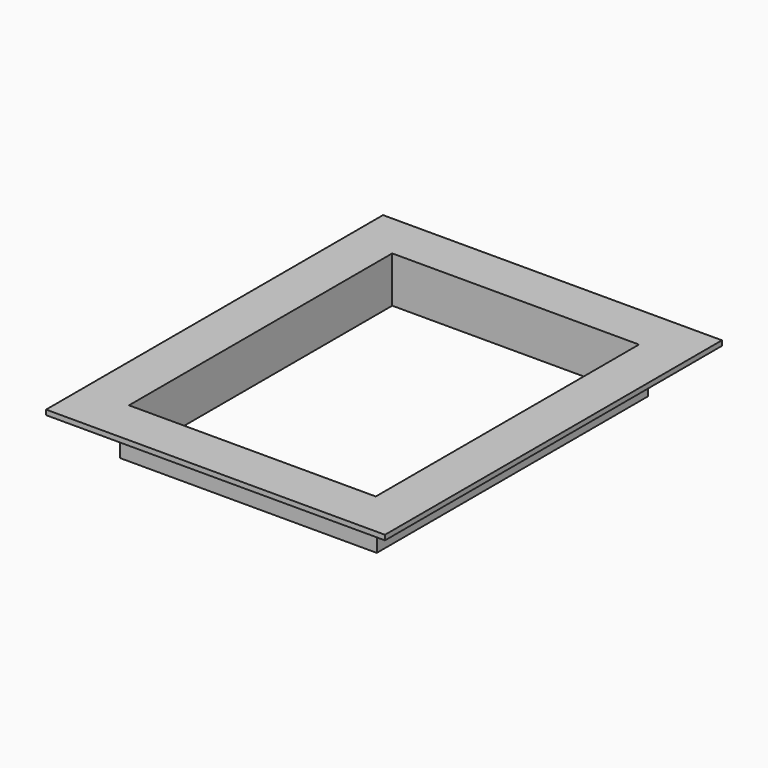
from build123d import *

# Parameters (mm, degrees)
SKETCH043_W  = 300
SKETCH043_H  = 60
PAD007_DEPTH = 200
SKETCH044_W  = 312
SKETCH044_H  = 50
PAD008_DEPTH = 206
SKETCH045_W  = 412
SKETCH045_H  = 512
PAD009_DEPTH = 6


with BuildPart() as body008:
    # Sketch043 → Pad007 (new body, symmetric)
    with BuildSketch(Plane.XZ):
        with Locations((0, 30)):
            Rectangle(SKETCH043_W, SKETCH043_H)
    extrude(amount=PAD007_DEPTH, both=True)


with BuildPart() as cut006:
    # Sketch044 → Pad008 (new body, symmetric)
    with BuildSketch(Plane.XZ):
        with Locations((0, 25)):
            Rectangle(SKETCH044_W, SKETCH044_H)
    extrude(amount=PAD008_DEPTH, both=True)

    # Sketch045 (on Face3 of Pad008) → Pad009 (join)
    with BuildSketch(Plane(origin=(0, 0, 50), x_dir=(-1, 0, 0), z_dir=(0, 0, 1))):
        Rectangle(SKETCH045_W, SKETCH045_H)
    extrude(amount=PAD009_DEPTH)

    # Cut006: cut Body008
    add(body008.part, mode=Mode.SUBTRACT)


solid = cut006.part
